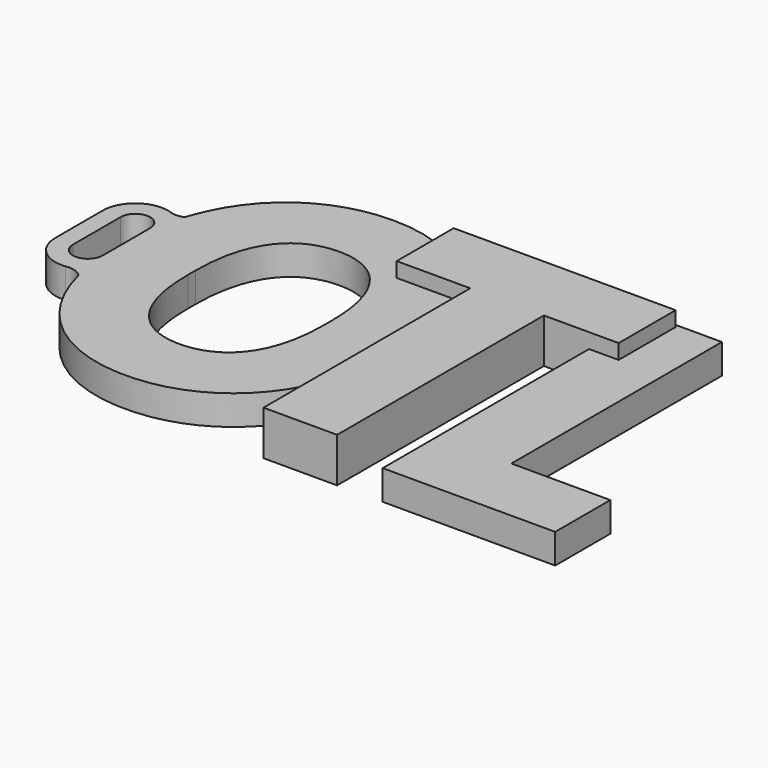
from build123d import *

# Parameters (mm, degrees)
PAD_DEPTH    = 2
PAD001_DEPTH = 3
PAD002_DEPTH = 2
PAD003_DEPTH = 2


with BuildPart() as part:
    # Sketch001 → Pad (new body)
    with BuildSketch(Plane.XY):
        with BuildLine():
            add(Edge.make_bspline(
                [(11.345455, -0.198864), (16.382955, -0.198864), (20.826136, 3.529545), (20.826136, 10.782955)],
                knots=[0, 0, 0, 0, 1, 1, 1, 1], degree=3))
            Line((20.826136, 10.782955), (20.826136, 11.417045))
            add(Edge.make_bspline(
                [(20.826136, 11.417045), (20.826136, 18.670455), (16.382955, 22.4), (11.345455, 22.4)],
                knots=[0, 0, 0, 0, 1, 1, 1, 1], degree=3))
            add(Edge.make_bspline(
                [(11.345455, 22.4), (6.306818, 22.4), (1.903409, 18.670455), (1.903409, 11.417045)],
                knots=[0, 0, 0, 0, 1, 1, 1, 1], degree=3))
            Line((1.903409, 11.417045), (1.903409, 10.782955))
            add(Edge.make_bspline(
                [(1.903409, 10.782955), (1.903409, 3.529545), (6.306818, -0.198864), (11.345455, -0.198864)],
                knots=[0, 0, 0, 0, 1, 1, 1, 1], degree=3))
        make_face()
        with BuildLine():
            add(Edge.make_bspline(
                [(11.345455, 4.363636), (9.004545, 4.363636), (6.782955, 5.948864), (6.782955, 10.782955)],
                knots=[0, 0, 0, 0, 1, 1, 1, 1], degree=3))
            Line((6.782955, 10.782955), (6.782955, 11.417045))
            add(Edge.make_bspline(
                [(6.782955, 11.417045), (6.782955, 16.252273), (9.004545, 17.8375), (11.345455, 17.8375)],
                knots=[0, 0, 0, 0, 1, 1, 1, 1], degree=3))
            add(Edge.make_bspline(
                [(11.345455, 17.8375), (13.685227, 17.8375), (15.946591, 16.252273), (15.946591, 11.417045)],
                knots=[0, 0, 0, 0, 1, 1, 1, 1], degree=3))
            Line((15.946591, 11.417045), (15.946591, 10.782955))
            add(Edge.make_bspline(
                [(15.946591, 10.782955), (15.946591, 5.948864), (13.685227, 4.363636), (11.345455, 4.363636)],
                knots=[0, 0, 0, 0, 1, 1, 1, 1], degree=3))
        make_face(mode=Mode.SUBTRACT)
    extrude(amount=PAD_DEPTH)

    # Sketch003 → Pad001 (join)
    with BuildSketch(Plane(origin=(-7.7, 0, 0), x_dir=(1, 0, 0), z_dir=(0, 0, 1))):
        Polygon((38.234091, 22.181818), (23.278409, 22.181818), (23.278409, 17.381818), (28.2375, 17.381818), (28.2375, -0.034091), (33.196591, -0.034091), (33.196591, 17.381818), (38.234091, 17.381818), align=None)
    extrude(amount=PAD001_DEPTH)

    # Sketch004 → Pad002 (join)
    with BuildSketch(Plane(origin=(-13, 0, 0), x_dir=(1, 0, 0), z_dir=(0, 0, 1))):
        Polygon((46.498864, 4.640909), (46.498864, 22.372727), (41.539773, 22.372727), (41.539773, 0), (53.163636, 0), (53.163636, 4.640909), align=None)
    extrude(amount=PAD002_DEPTH)

    # Sketch005 → Pad003 (join)
    with BuildSketch(Plane(origin=(0.5, 0, 0), x_dir=(1, 0, 0), z_dir=(0, 0, 1))):
        with BuildLine():
            ThreePointArc((-1.797468, 9.715848), (-1.062216, 8.07435), (0.652091, 7.530048))
            ThreePointArc((1.82363, 7.152552), (1.285914, 7.490432), (0.652091, 7.530048))
            Line((1.82363, 7.152552), (2.602532, 9.715848))
            Line((2.602532, 9.715848), (2.602532, 13.715848))
            Line((2.04395, 15.821661), (2.602532, 13.715848))
            ThreePointArc((1.204151, 15.764606), (1.628824, 15.722862), (2.04395, 15.821661))
            ThreePointArc((1.204151, 15.764606), (-0.837718, 15.532928), (-1.797468, 13.715848))
            Line((-1.797468, 13.715848), (-1.797468, 9.715848))
        make_face()
        with BuildLine():
            ThreePointArc((1.402532, 13.715848), (0.402532, 14.715848), (-0.597468, 13.715848))
            Line((-0.597468, 13.715848), (-0.597468, 9.715848))
            ThreePointArc((-0.597468, 9.715848), (0.402532, 8.715848), (1.402532, 9.715848))
            Line((1.402532, 9.715848), (1.402532, 13.715848))
        make_face(mode=Mode.SUBTRACT)
    extrude(amount=PAD003_DEPTH)


solid = part.part
